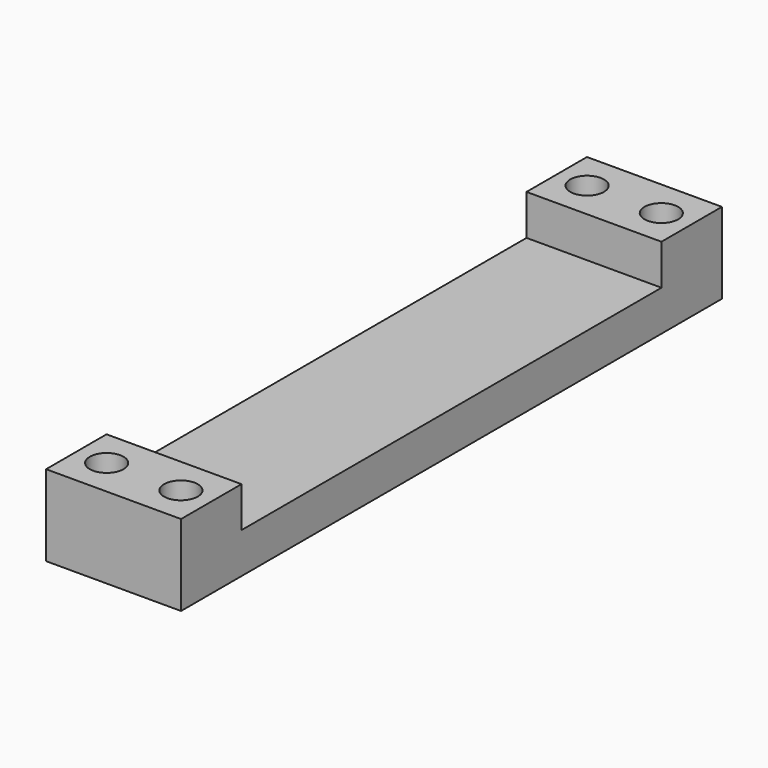
from build123d import *

# Parameters (mm, degrees)
F0_W     = 10
F0_H     = 38.9
F1_DEPTH = 3
F0_H_2   = 5.6
F0_R     = 1.25
F2_DEPTH = 6


with BuildPart() as f1:
    # F0 (on Top) → F1 (new body)
    with BuildSketch(Plane.XY):
        Rectangle(F0_W, F0_H)
    extrude(amount=F1_DEPTH)

    # F0 (on Top) → F2 (join)
    with BuildSketch(Plane.XY):
        with Locations((0, 22.25)):
            Rectangle(F0_W, F0_H_2)
        with Locations((-2.75, 22.25)):
            Circle(F0_R, mode=Mode.SUBTRACT)
        with Locations((2.75, 22.25)):
            Circle(F0_R, mode=Mode.SUBTRACT)
        with Locations((0, -22.25)):
            Rectangle(F0_W, F0_H_2)
        with Locations((-2.75, -22.25)):
            Circle(F0_R, mode=Mode.SUBTRACT)
        with Locations((2.75, -22.25)):
            Circle(F0_R, mode=Mode.SUBTRACT)
    extrude(amount=F2_DEPTH)


solid = f1.part
